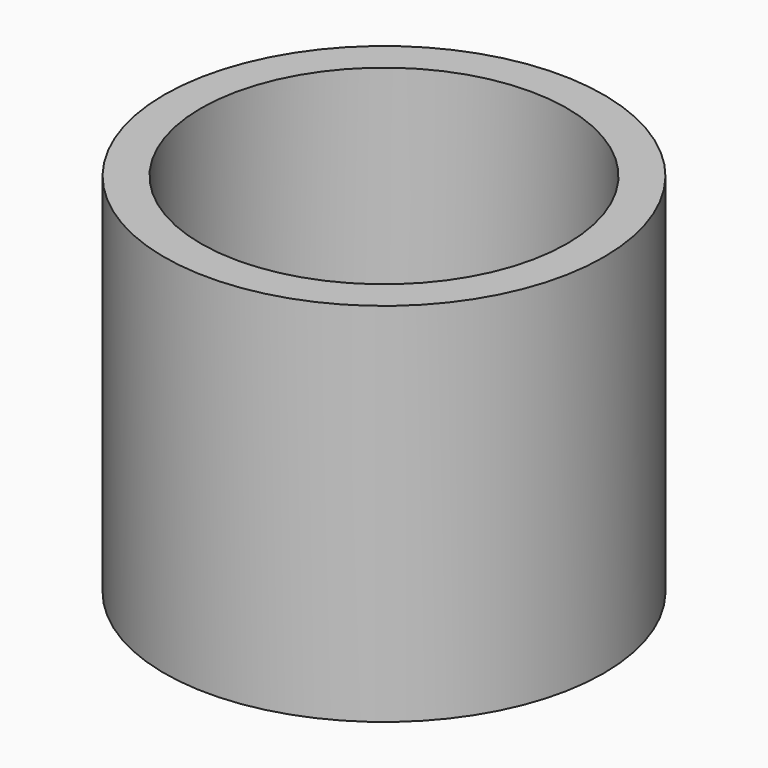
from build123d import *

# Parameters (mm, degrees)
F0_R     = 11.4
F0_R_2   = 9.5
F0_R_3   = 6.5
F1_DEPTH = 2
F2_DEPTH = 19


with BuildPart() as f1:
    # F0 (on Top) → F1 (new body)
    with BuildSketch(Plane.XY):
        Circle(F0_R)
        Circle(F0_R_2, mode=Mode.SUBTRACT)
        Circle(F0_R_2)
        Circle(F0_R_3, mode=Mode.SUBTRACT)
    extrude(amount=F1_DEPTH)

    # F0 (on Top) → F2 (join)
    with BuildSketch(Plane.XY):
        Circle(F0_R)
        Circle(F0_R_2, mode=Mode.SUBTRACT)
    extrude(amount=F2_DEPTH)


solid = f1.part
